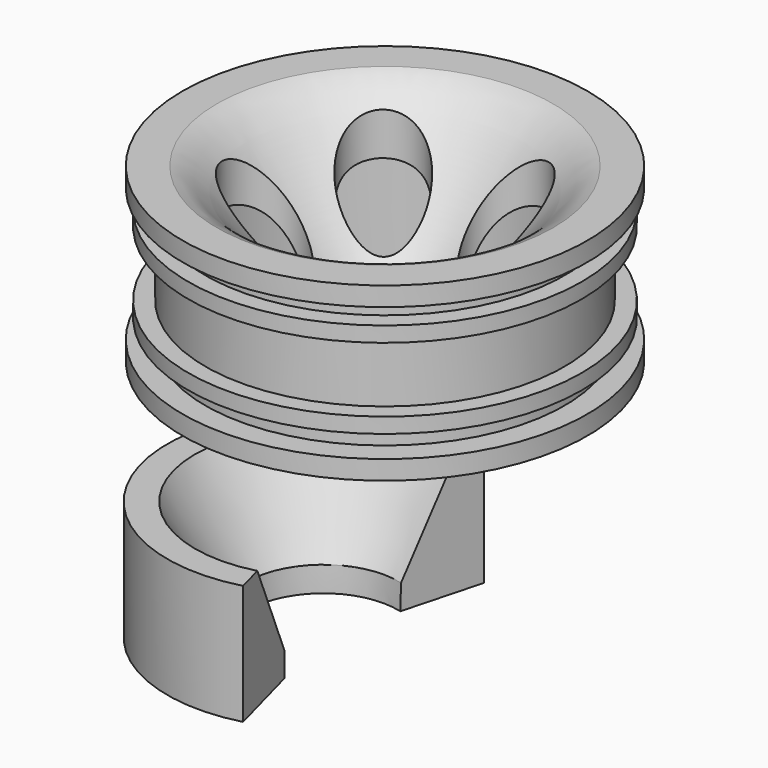
from build123d import *

# Parameters (mm, degrees)
F3_R          = 5
F4_DEPTH      = 28.2850981838
F7_DEPTH      = 4.5
F9_ANGLE_BACK = 105
F9_ANGLE      = 210


with BuildPart() as f1:
    # F0 (on Front) → F1 (revolve)
    with BuildSketch(Plane.XZ):
        with BuildLine():
            add(Edge.make_bspline(
                [(-13.0927497925, -24.0248590538), (-14.2333518893, -22.7393756568), (-16.9887316594, -19.282406067), (-23.7785981303, -11.3658951225), (-27.8752429092, -6.4568800247), (-30.0927497925, -5.7748590538)],
                knots=[0, 0, 0, 0, 0.2833434218, 0.6662030683, 1, 1, 1, 1], degree=3))
            Line((-30.0927497925, -5.7748590538), (-34.5927497925, -5.7748590538))
            Line((-34.5927497925, -5.7748590538), (-34.5927497925, -8.2748590538))
            Line((-34.5927497925, -8.2748590538), (-31.5927497925, -8.2748590538))
            Line((-31.5927497925, -8.2748590538), (-31.5927497925, -10.7748590538))
            Line((-31.5927497925, -10.7748590538), (-33.8427497925, -10.7748590538))
            Line((-33.8427497925, -10.7748590538), (-33.8427497925, -12.7748590538))
            Line((-33.8427497925, -12.7748590538), (-31.5927497925, -12.7748590538))
            Line((-31.5927497925, -12.7748590538), (-31.5927497925, -21.2748590538))
            Line((-31.5927497925, -21.2748590538), (-33.8427497925, -21.2748590538))
            Line((-33.8427497925, -21.2748590538), (-33.8427497925, -23.2748590538))
            Line((-33.8427497925, -23.2748590538), (-31.5927497925, -23.2748590538))
            Line((-31.5927497925, -23.2748590538), (-31.5927497925, -25.7748590538))
            Line((-31.5927497925, -25.7748590538), (-34.5927497925, -25.7748590538))
            Line((-34.5927497925, -25.7748590538), (-34.5927497925, -28.2748590538))
            Line((-34.5927497925, -28.2748590538), (-30.0927497925, -28.2748590538))
            Line((-30.0927497925, -28.2748590538), (-30.0927497925, -15.6301839453))
            Line((-30.0927497925, -15.6301839453), (-27.5206816742, -13.7137450425))
            add(Edge.make_bspline(
                [(-27.5206816742, -13.7137450425), (-26.8467638288, -13.9149134247), (-23.8717662325, -15.1307256266), (-19.3426564404, -20.7159007281), (-15.6714721342, -28.4960295704), (-14.0927497925, -28.2748590538)],
                knots=[0.1549615854, 0.1549615854, 0.1549615854, 0.1549615854, 0.2684053889, 0.6432713817, 1, 1, 1, 1], degree=3))
            Line((-14.0927497925, -28.2748590538), (-9.7927497925, -28.2748590538))
            Line((-9.7927497925, -28.2748590538), (-9.7927497925, -24.0248590538))
            Line((-9.7927497925, -24.0248590538), (-13.0927497925, -24.0248590538))
        make_face()
    revolve(axis=Axis((-8.0927497925, 0, -26.1498590538), (0, 0, 1)))


with BuildPart() as f1_1:
    # F2: moved
    add(f1.part.moved(Location((8.0927, 0, 0))))

    # F3 (on Top) → F4 (cut, through all)
    with BuildSketch(Plane.XY):
        with Locations((-8.2662627101, 10.0446967408)):
            Circle(F3_R)
        with Locations((7.0940844097, 10.9041734302)):
            Circle(F3_R)
        with Locations((12.5327273584, -3.4868003623)):
            Circle(F3_R)
        with Locations((0.4432431909, -13.0011756115)):
            Circle(F3_R)
        with Locations((-12.2661557622, -4.3322574512)):
            Circle(F3_R)
    extrude(amount=-F4_DEPTH, mode=Mode.SUBTRACT)


with BuildPart() as f1_2:
    # F5: moved
    add(f1_1.part.moved(Location((0, 0, 30))))

    # F6 (on Top) → F7 (cut)
    with BuildSketch(Plane.XY):
        Polygon((4.2475106725, 0.4604198302), (1.7250200669, 3.9086620604), (-2.5224906057, 3.4482422301), (-4.2475106725, -0.4604198302), (-1.7250200669, -3.9086620604), (2.5224906057, -3.4482422301), align=None)
    extrude(amount=F7_DEPTH, mode=Mode.SUBTRACT)


with BuildPart() as f9:
    # F8 (on Front) → F9 (revolve)
    with BuildSketch(Plane.XZ, mode=Mode.PRIVATE) as f9_sk:
        Polygon((-24.8568598181, -17.089612782), (-28.4885242581, -17.089612782), (-28.4885242581, -32.7631160617), (-17.8802404553, -32.7631160617), (-17.9758109152, -29.5137297362), align=None)
    revolve(f9_sk.sketch.rotate(Axis((-8.0927497925, 0, -26.1498590538), (0, 0, 1)), -F9_ANGLE_BACK), axis=Axis((-8.0927497925, 0, -26.1498590538), (0, 0, 1)), revolution_arc=F9_ANGLE)


solid = Compound([f1_2.part, f9.part])
